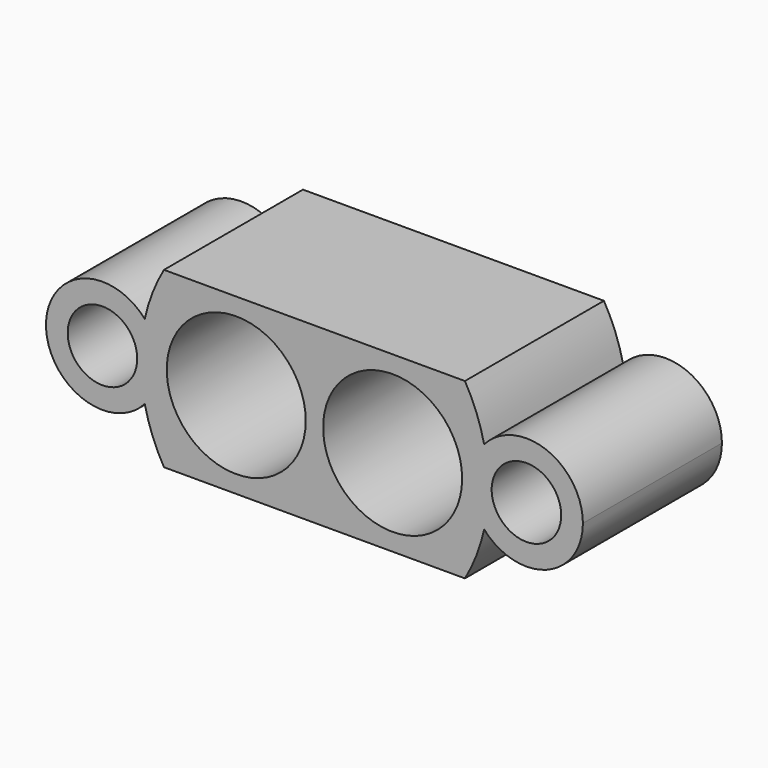
from build123d import *

# Parameters (mm, degrees)
F0_R     = 4
F1_DEPTH = 10
F0_R_2   = 2
F2_DEPTH = 10
F3_DEPTH = 10


with BuildPart() as f1:
    # F0 (on Front) → F1 (new body)
    with BuildSketch(Plane.XZ):
        with BuildLine():
            ThreePointArc((9.7654713115, -2.1530374044), (8.95, 0), (9.7654713115, 2.1530374044))
            ThreePointArc((9.7654713115, 2.1530374044), (9.322185241, 3.618958736), (8.6602540378, 5))
            Line((8.6602540378, 5), (-8.6602540378, 5))
            ThreePointArc((-8.6602540378, 5), (-9.322185241, 3.618958736), (-9.7654713115, 2.1530374044))
            ThreePointArc((-9.7654713115, 2.1530374044), (-9.1606975934, 1.1511476366), (-8.95, 0))
            ThreePointArc((-8.95, 0), (-9.1606975934, -1.1511476366), (-9.7654713115, -2.1530374044))
            ThreePointArc((-9.7654713115, -2.1530374044), (-9.322185241, -3.618958736), (-8.6602540378, -5))
            Line((-8.6602540378, -5), (8.6602540378, -5))
            ThreePointArc((8.6602540378, -5), (9.322185241, -3.618958736), (9.7654713115, -2.1530374044))
        make_face()
        with Locations((-4.5, 0)):
            Circle(F0_R, mode=Mode.SUBTRACT)
        with Locations((4.5, 0)):
            Circle(F0_R, mode=Mode.SUBTRACT)
    extrude(amount=F1_DEPTH)

    # F0 (on Front) → F2 (join)
    with BuildSketch(Plane.XZ):
        with BuildLine():
            ThreePointArc((-9.7654713115, -2.1530374044), (-10, 0), (-9.7654713115, 2.1530374044))
            ThreePointArc((-9.7654713115, 2.1530374044), (-15.45, 0), (-9.7654713115, -2.1530374044))
        make_face()
        with Locations((-12.2, 0)):
            Circle(F0_R_2, mode=Mode.SUBTRACT)
        with BuildLine():
            ThreePointArc((9.7654713115, 2.1530374044), (9.941194926, 1.082886625), (10, 0))
            ThreePointArc((10, 0), (9.941194926, -1.082886625), (9.7654713115, -2.1530374044))
            ThreePointArc((9.7654713115, -2.1530374044), (13.3511476366, -3.0393024066), (15.45, 0))
            ThreePointArc((15.45, 0), (13.3511476366, 3.0393024066), (9.7654713115, 2.1530374044))
        make_face()
        with Locations((12.2, 0)):
            Circle(F0_R_2, mode=Mode.SUBTRACT)
    extrude(amount=F2_DEPTH)

    # F0 (on Front) → F3 (join)
    with BuildSketch(Plane.XZ):
        with BuildLine():
            ThreePointArc((9.7654713115, -2.1530374044), (9.941194926, -1.082886625), (10, 0))
            ThreePointArc((10, 0), (9.941194926, 1.082886625), (9.7654713115, 2.1530374044))
            ThreePointArc((9.7654713115, 2.1530374044), (8.95, 0), (9.7654713115, -2.1530374044))
        make_face()
        with BuildLine():
            ThreePointArc((-8.95, 0), (-9.1606975934, 1.1511476366), (-9.7654713115, 2.1530374044))
            ThreePointArc((-9.7654713115, 2.1530374044), (-10, 0), (-9.7654713115, -2.1530374044))
            ThreePointArc((-9.7654713115, -2.1530374044), (-9.1606975934, -1.1511476366), (-8.95, 0))
        make_face()
    extrude(amount=F3_DEPTH)


solid = f1.part
